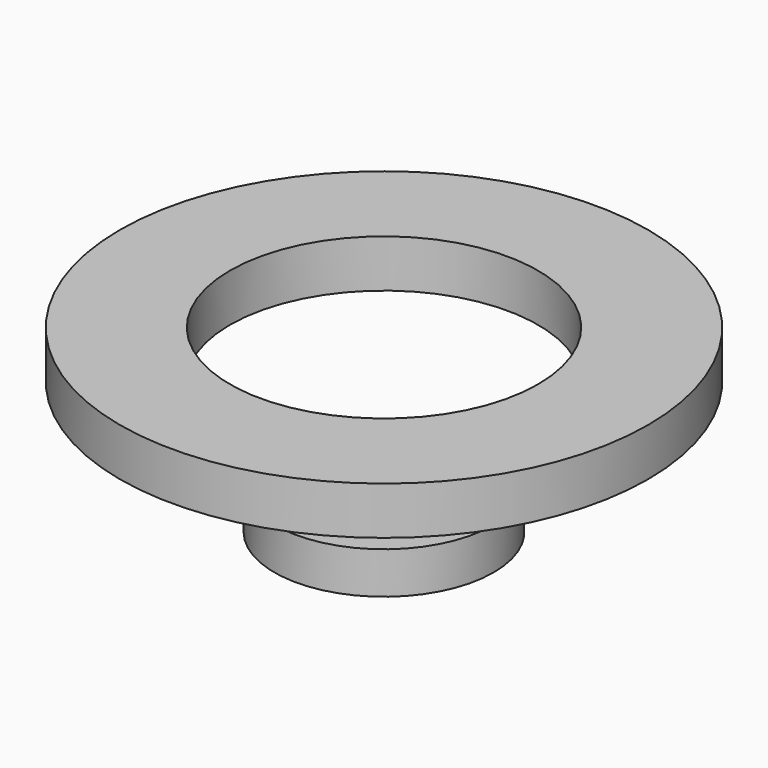
from build123d import *

# Parameters (mm, degrees)
F0_W   = 31.6119119525
F0_H   = 13.7230008841
F0_W_2 = 31.4893871546
F0_H_2 = 12.0076267049


with BuildPart() as f1:
    # F0 (on Front) → F1 (revolve)
    with BuildSketch(Plane.XZ):
        with Locations((60.0381307304, 44.8448099196)):
            Rectangle(F0_W, F0_H)
    revolve(axis=Axis((0, 0, 35.1651906967), (0, 0, 1)))


with BuildPart() as f1b:
    # F0 (on Front) → F1, piece 2 (revolve)
    with BuildSketch(Plane.XZ):
        with Locations((15.7446935773, 6.0038133524)):
            Rectangle(F0_W_2, F0_H_2)
    revolve(axis=Axis((0, 0, 35.1651906967), (0, 0, 1)))


solid = Compound([f1.part, f1b.part])
